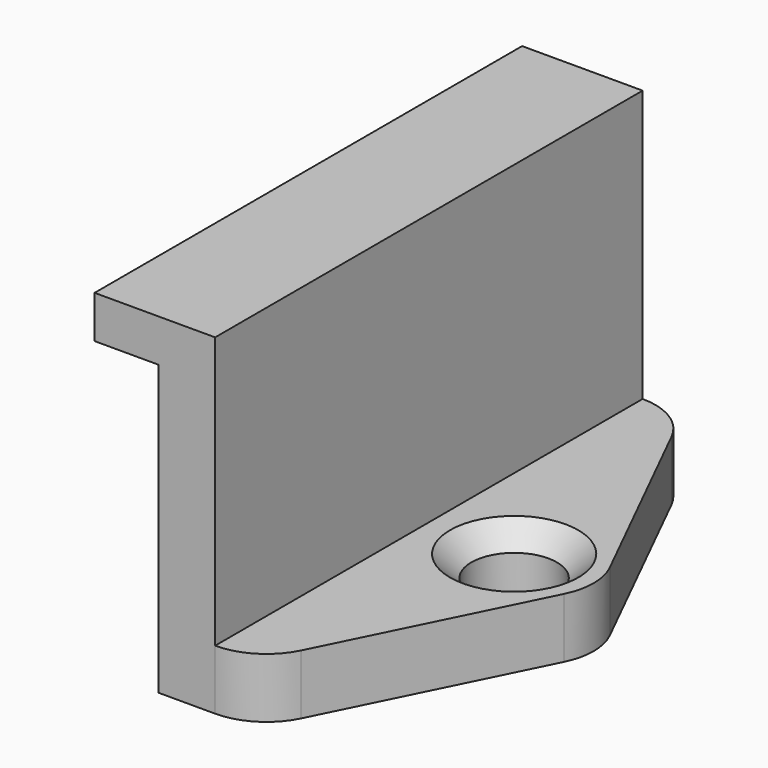
from build123d import *

# Parameters (mm, degrees)
F1_DEPTH  = 2.8
F2_R      = 3
F3_SIZE   = 1
F1_FACE_W = 25
F1_FACE_H = 2.8
F4_DEPTH  = 1.5
F5_W      = 2.63875
F5_H      = 25
F6_DEPTH  = 12.7
F7_W      = 25
F7_H      = 1.989666
F8_DEPTH  = 3


with BuildPart() as f1:
    # F0 (on Top) → F1 (new body)
    with BuildSketch(Plane.XY):
        with BuildLine():
            Line((9.196268, 0), (7.12831, 0))
            ThreePointArc((7.12831, 0), (5.12831, -2), (3.12831, 0))
            Line((3.12831, 0), (0, 0))
            Line((0, 0), (0, -12.5))
            Line((0, -12.5), (3, -12.5))
            Line((3, -12.5), (9.196268, 0))
        make_face()
        with BuildLine():
            ThreePointArc((3.12831, 0), (5.12831, 2), (7.12831, 0))
            Line((7.12831, 0), (9.196268, 0))
            Line((9.196268, 0), (3, 12.5))
            Line((3, 12.5), (0, 12.5))
            Line((0, 12.5), (0, 0))
            Line((0, 0), (3.12831, 0))
        make_face()
    extrude(amount=F1_DEPTH)

    # F2
    f2_edges = [f1.edges().sort_by_distance(p)[0] for p in [
        (9.196268, 0, 1.4),
        (3, -12.5, 1.4),
        (3, 12.5, 1.4),
    ]]
    fillet(f2_edges, radius=F2_R)

    # F3
    f3_edges = [f1.edges().sort_by_distance(p)[0] for p in [
        (3.12831, 0, 2.8),
    ]]
    chamfer(f3_edges, length=F3_SIZE)

    # F1_face (on face) → F4 (join)
    with BuildSketch(Plane(origin=(0, 0, 1.4), x_dir=(0, -1, 0), z_dir=(-1, 0, 0))):
        Rectangle(F1_FACE_W, F1_FACE_H)
    extrude(amount=F4_DEPTH)

    # F5 (on face) → F6 (join)
    with BuildSketch(Plane.XY.offset(2.8)):
        with Locations((-0.180625, 0)):
            Rectangle(F5_W, F5_H)
    extrude(amount=F6_DEPTH)

    # F7 (on face) → F8 (join)
    with BuildSketch(Plane(origin=(-1.5, 0, 0), x_dir=(0, -1, 0), z_dir=(-1, 0, 0))):
        with Locations((0, 14.505167)):
            Rectangle(F7_W, F7_H)
    extrude(amount=F8_DEPTH)


solid = f1.part
